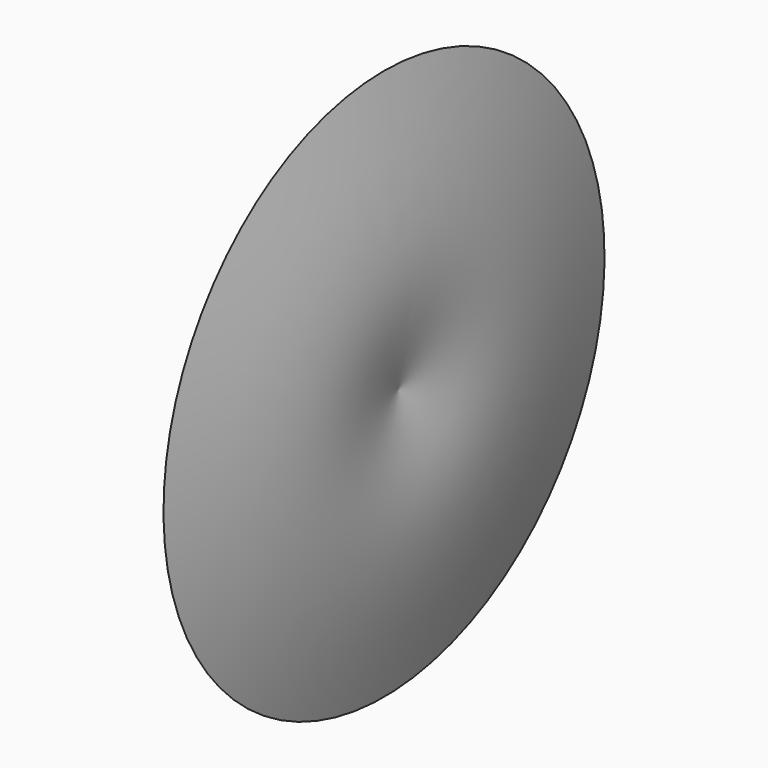
from build123d import *


with BuildPart() as f1:
    # F0 (on Front) → F1 (revolve)
    with BuildSketch(Plane.XZ):
        with BuildLine():
            add(Edge.make_bspline(
                [(31.2622189522, 119.5488795638), (37.6408333759, 94.0912636598), (49.1425325366, 48.1869746319), (41.1342634929, 14.8492690325), (37.5672280788, 0)],
                knots=[0, 0, 0, 0, 0.5545802773, 1, 1, 1, 1], degree=3))
            add(Edge.make_bspline(
                [(31.2622189522, 119.5488795638), (33.0005814394, 92.8188798896), (35.9329391423, 47.7293695307), (24.0259520852, 24.4990789614), (19.1776752472, 15.0401890278)],
                knots=[0, 0, 0, 0, 0.5928208313, 1, 1, 1, 1], degree=3))
            Line((19.1776752472, 15.0401890278), (0, 15.0401890278))
            ThreePointArc((0, 15.0401890278), (-5.8374188081, 26.139864047), (-11.2964212894, 14.8492690325))
            Line((-11.2964212894, 14.8492690325), (-11.2964212894, 0))
            Line((-11.2964212894, 0), (37.5672280788, 0))
        make_face()
    revolve(axis=Axis((13.1354033947, 0, 0), (1, 0, 0)))


solid = f1.part
